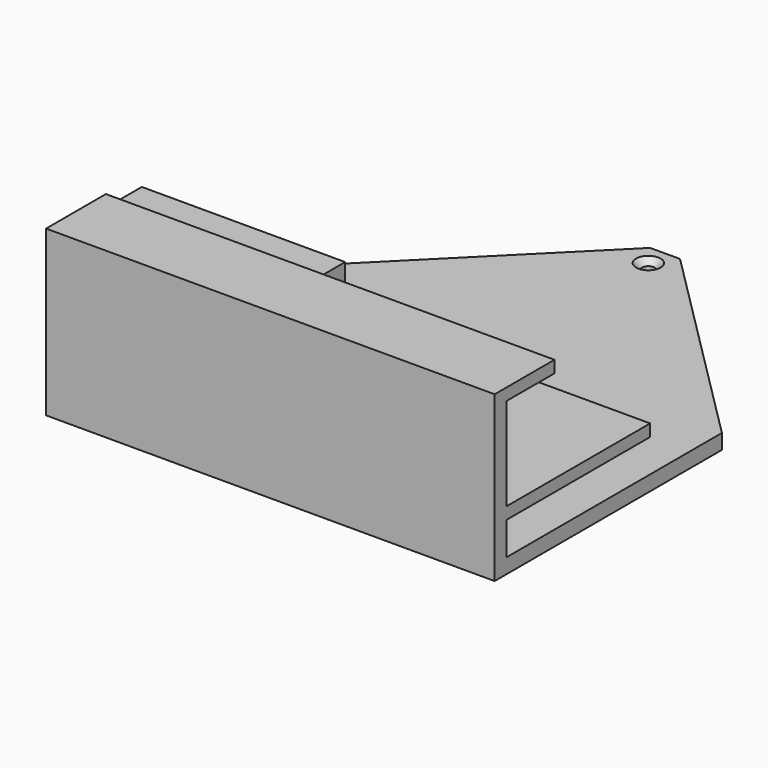
from build123d import *

# Parameters (mm, degrees)
PAD_DEPTH       = 5
SKETCH001_W     = 150
SKETCH001_H     = 5
PAD001_DEPTH    = 50
SKETCH002_W     = 150
SKETCH002_H     = 4
PAD002_DEPTH    = 60
SKETCH003_W     = 150
SKETCH003_H     = 4
PAD003_DEPTH    = 20
SKETCH004_W     = 68
SKETCH004_H     = 19
PAD004_DEPTH    = 35
SKETCH005_W     = 60
SKETCH005_H     = 13
POCKET_DEPTH    = 35
SKETCH006_R     = 2.1
POCKET001_DEPTH = 5
CHAMFER_SIZE    = 2


with BuildPart() as part:
    # Sketch → Pad (new body)
    with BuildSketch(Plane.XY):
        Polygon((0, 0), (0, 95), (70, 165), (80, 165), (150, 95), (150, 0), align=None)
    extrude(amount=PAD_DEPTH)

    # Sketch001 (on Face8 of Pad) → Pad001 (join)
    with BuildSketch(Plane.XY.offset(5)):
        with Locations((75, 2.5)):
            Rectangle(SKETCH001_W, SKETCH001_H)
    extrude(amount=PAD001_DEPTH)

    # Sketch002 (on Face11 of Pad001) → Pad002 (join)
    with BuildSketch(Plane(origin=(0, 5, 0), x_dir=(-1, 0, 0), z_dir=(0, 1, 0))):
        with Locations((-75, 18)):
            Rectangle(SKETCH002_W, SKETCH002_H)
    extrude(amount=PAD002_DEPTH)

    # Sketch003 (on Face10 of Pad002) → Pad003 (join)
    with BuildSketch(Plane(origin=(0, 5, 0), x_dir=(-1, 0, 0), z_dir=(0, 1, 0))):
        with Locations((-75, 53)):
            Rectangle(SKETCH003_W, SKETCH003_H)
    extrude(amount=PAD003_DEPTH)

    # Sketch004 (on Face10 of Pad003) → Pad004 (join)
    with BuildSketch(Plane(origin=(0, 5, 0), x_dir=(-1, 0, 0), z_dir=(0, 1, 0))):
        with Locations((-34, 41.5)):
            Rectangle(SKETCH004_W, SKETCH004_H)
    extrude(amount=PAD004_DEPTH)

    # Sketch005 (on Face23 of Pad004) → Pocket (cut)
    with BuildSketch(Plane(origin=(0, 40, 0), x_dir=(-1, 0, 0), z_dir=(0, 1, 0))):
        with Locations((-34, 41.5)):
            Rectangle(SKETCH005_W, SKETCH005_H)
    extrude(amount=-POCKET_DEPTH, mode=Mode.SUBTRACT)

    # Sketch006 (on Face5 of Pocket) → Pocket001 (cut)
    with BuildSketch(Plane.XY.offset(5)):
        with Locations((75, 158)):
            Circle(SKETCH006_R)
    extrude(amount=-POCKET001_DEPTH, mode=Mode.SUBTRACT)

    # Chamfer
    chamfer_edges = [part.edges().sort_by_distance(p)[0] for p in [
        (72.9, 158, 5),
    ]]
    chamfer(chamfer_edges, length=CHAMFER_SIZE)


solid = part.part
